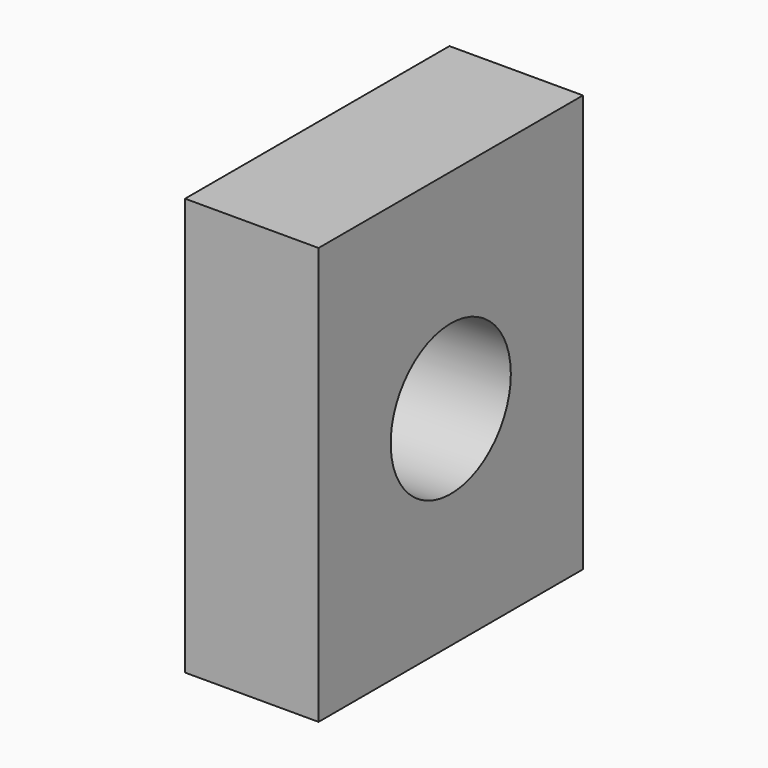
from build123d import *

# Parameters (mm, degrees)
F0_W     = 9.9
F0_H     = 12.5
F0_R     = 2.25
F1_DEPTH = 4


with BuildPart() as f1:
    # F0 (on Right) → F1 (new body)
    with BuildSketch(Plane.YZ):
        Rectangle(F0_W, F0_H)
        Circle(F0_R, mode=Mode.SUBTRACT)
    extrude(amount=-F1_DEPTH)


solid = f1.part
